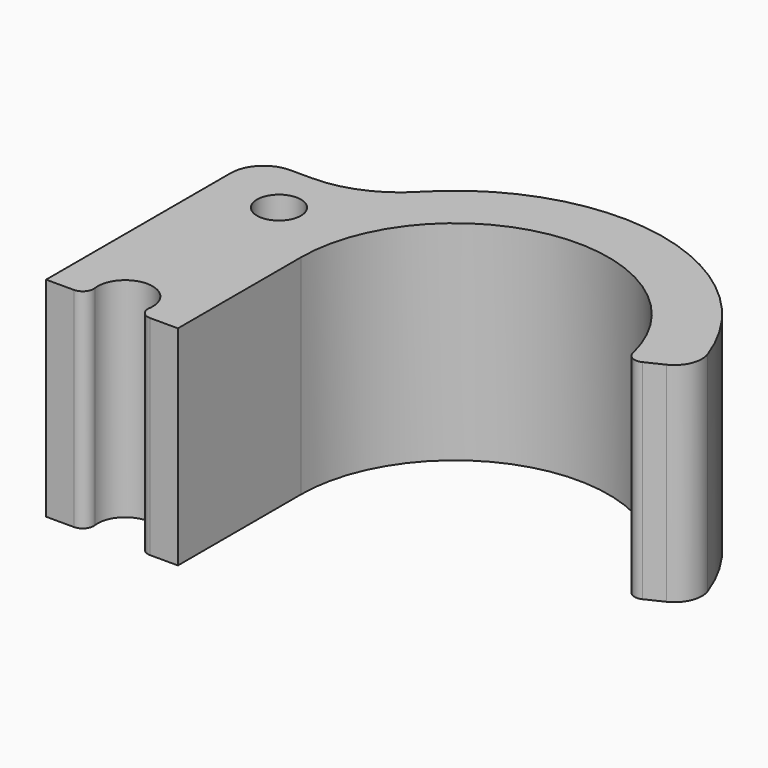
from build123d import *

# Parameters (mm, degrees)
F0_R     = 2
F1_DEPTH = 19
F2_R     = 3
F3_R     = 10
F4_R     = 2.5
F5_R     = 1
F6_R     = 1


with BuildPart() as f1:
    # F0 (on Top) → F1 (new body)
    with BuildSketch(Plane.XY):
        with BuildLine():
            Line((0, 24), (0, 0))
            Line((0, 0), (4, 0))
            ThreePointArc((4, 0), (5.209430585, 3.8717082451), (8.5, 1.5))
            ThreePointArc((8.5, 1.5), (8.3717082451, 0.709430585), (8, 0))
            Line((8, 0), (12, 0))
            Line((12, 0), (12, 14))
            Line((12, 14), (12, 24))
            Line((12, 24), (9.8445055786, 24))
            Line((9.8445055786, 24), (0, 24))
        make_face()
        with Locations((6, 19)):
            Circle(F0_R, mode=Mode.SUBTRACT)
        with BuildLine():
            ThreePointArc((44.5191347039, 18.2475463293), (29.1095626147, 32.7438155226), (9.8445055786, 24))
            Line((9.8445055786, 24), (12, 24))
            Line((12, 24), (12, 14))
            ThreePointArc((12, 14), (24.9974259249, 27.964055472), (39.8564064606, 16))
            Line((39.8564064606, 16), (44.5191347039, 18.2475463293))
        make_face()
    extrude(amount=F1_DEPTH)

    # F2
    f2_edges = [f1.edges().sort_by_distance(p)[0] for p in [
        (0, 24, 9.5),
    ]]
    fillet(f2_edges, radius=F2_R)

    # F3
    f3_edges = [f1.edges().sort_by_distance(p)[0] for p in [
        (9.844506, 24, 9.5),
    ]]
    fillet(f3_edges, radius=F3_R)

    # F4
    f4_edges = [f1.edges().sort_by_distance(p)[0] for p in [
        (44.519135, 18.247546, 9.5),
    ]]
    fillet(f4_edges, radius=F4_R)

    # F5
    f5_edges = [f1.edges().sort_by_distance(p)[0] for p in [
        (39.856406, 16, 9.5),
    ]]
    fillet(f5_edges, radius=F5_R)

    # F6
    f6_edges = [f1.edges().sort_by_distance(p)[0] for p in [
        (4, 0, 9.5),
        (8, 0, 9.5),
    ]]
    fillet(f6_edges, radius=F6_R)


solid = f1.part
